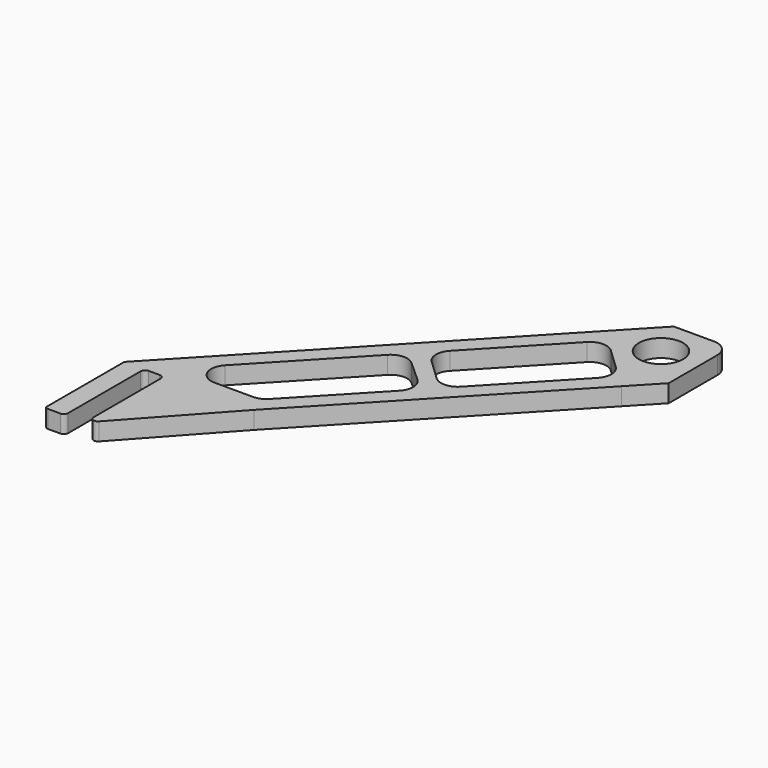
from build123d import *

# Parameters (mm, degrees)
F0_R     = 10
F1_DEPTH = 8


with BuildPart() as f1:
    # F0 (on Top) → F1 (new body)
    with BuildSketch(Plane.XY):
        with BuildLine():
            ThreePointArc((-2, 0), (-0.585786, -0.585786), (0, -2))
            Line((0, -2), (0, -39.817824))
            ThreePointArc((0, -39.817824), (1.279892, -41.683687), (3.481445, -41.161447))
            Line((3.481445, -41.161447), (40.813559, 0))
            Line((40.813559, 0), (130.9251, 95.263347))
            Line((130.9251, 95.263347), (142.5, 107.5))
            Line((142.5, 107.5), (142.5, 125))
            Line((142.5, 125), (142.5, 135))
            ThreePointArc((142.5, 135), (140.303301, 140.303301), (135, 142.5))
            Line((135, 142.5), (116.793654, 142.5))
            Line((116.793654, 142.5), (104.779634, 129.799121))
            Line((104.779634, 129.799121), (-18, 0))
            Line((-18, 0), (-18, -44.289797))
            ThreePointArc((-18, -44.289797), (-17.314199, -44.81378), (-16.471463, -45))
            Line((-16.471463, -45), (-11, -45))
            ThreePointArc((-11, -45), (-9.585786, -44.414214), (-9, -43))
            Line((-9, -43), (-9, -2))
            ThreePointArc((-9, -2), (-8.414214, -0.585786), (-7, 0))
            Line((-7, 0), (-2, 0))
        make_face()
        with BuildLine():
            Line((34.354794, 7.5), (16.836377, 7.5))
            ThreePointArc((16.836377, 7.5), (9.94782, 12.033895), (11.387794, 20.153925))
            Line((11.387794, 20.153925), (51.345731, 62.396315))
            ThreePointArc((51.345731, 62.396315), (56.501034, 64.736653), (61.823464, 62.80635))
            Line((61.823464, 62.80635), (71.310982, 54.230777))
            ThreePointArc((71.310982, 54.230777), (73.77628, 48.955349), (71.723881, 43.505992))
            Line((71.723881, 43.505992), (39.803376, 9.846075))
            ThreePointArc((39.803376, 9.846075), (37.320899, 8.111443), (34.354794, 7.5))
        make_face(mode=Mode.SUBTRACT)
        with BuildLine():
            ThreePointArc((120.047881, 105.578456), (122.384292, 100.340012), (120.335639, 94.982482))
            Line((120.335639, 94.982482), (86.723895, 59.449106))
            ThreePointArc((86.723895, 59.449106), (81.483666, 57.105926), (76.121387, 59.154449))
            Line((76.121387, 59.154449), (66.875695, 67.900137))
            ThreePointArc((66.875695, 67.900137), (64.532515, 73.140366), (66.581038, 78.502645))
            Line((66.581038, 78.502645), (100.203863, 114.047735))
            ThreePointArc((100.203863, 114.047735), (105.448841, 116.391046), (110.81327, 114.335858))
            Line((110.81327, 114.335858), (120.047881, 105.578456))
        make_face(mode=Mode.SUBTRACT)
        with Locations((125, 125)):
            Circle(F0_R, mode=Mode.SUBTRACT)
    extrude(amount=F1_DEPTH)


solid = f1.part
